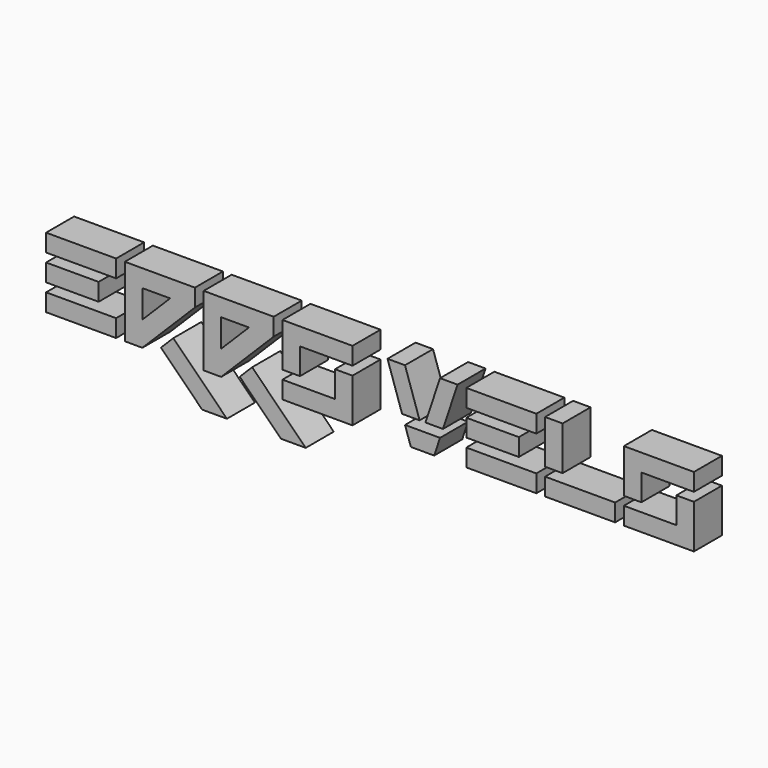
from build123d import *

# Parameters (mm, degrees)
F0_W     = 40
F0_H     = 10
F0_W_2   = 30
F0_W_3   = 10
F0_H_2   = 25
F1_DEPTH = 20


with BuildPart() as f1:
    # F0 (on Front) → F1 (new body)
    with BuildSketch(Plane.XZ):
        with Locations((-20, 35)):
            Rectangle(F0_W, F0_H)
        with Locations((-25, 20)):
            Rectangle(F0_W_2, F0_H)
        with Locations((-20, 5)):
            Rectangle(F0_W, F0_H)
        Polygon((5, 40), (5, 0), (15, 0), (22.071068, 7.071068), (29.142136, 14.142136), (45, 30), (45, 40), align=None)
        Polygon((15, 14.142136), (15, 30), (30.857864, 30), align=None, mode=Mode.SUBTRACT)
        Polygon((50, 40), (50, 0), (60, 0), (67.071068, 7.071068), (74.142136, 14.142136), (90, 30), (90, 40), align=None)
        Polygon((60, 14.142136), (60, 30), (75.857864, 30), align=None, mode=Mode.SUBTRACT)
        Polygon((135, 40), (95, 40), (95, 15), (105, 15), (105, 30), (125, 30), (135, 30), align=None)
        Polygon((95, 10), (95, 0), (135, 0), (135, 25), (125, 25), (125, 10), (105, 10), align=None)
        Polygon((165, 40), (155, 40), (163.333333, 15), (173.333333, 15), align=None)
        with Locations((220, 35)):
            Rectangle(F0_W, F0_H)
        with Locations((215, 20)):
            Rectangle(F0_W_2, F0_H)
        with Locations((220, 5)):
            Rectangle(F0_W, F0_H)
        with Locations((250, 27.5)):
            Rectangle(F0_W_3, F0_H_2)
        Polygon((330, 40), (290, 40), (290, 15), (300, 15), (300, 30), (320, 30), (330, 30), align=None)
        Polygon((290, 10), (290, 0), (330, 0), (330, 25), (320, 25), (320, 10), (300, 10), align=None)
        Polygon((186.666667, 15), (195, 40), (185, 40), (176.666667, 15), align=None)
        Polygon((165, 10), (168.333333, 0), (181.666667, 0), (185, 10), align=None)
        Polygon((245, 10), (245, 0), (285, 0), (285, 10), (255, 10), align=None)
        Polygon((32.67767, 10.606602), (25.606602, 3.535534), (49.142136, -20), (63.284271, -20), align=None)
        Polygon((77.67767, 10.606602), (70.606602, 3.535534), (94.142136, -20), (108.284271, -20), align=None)
    extrude(amount=F1_DEPTH)


solid = f1.part
